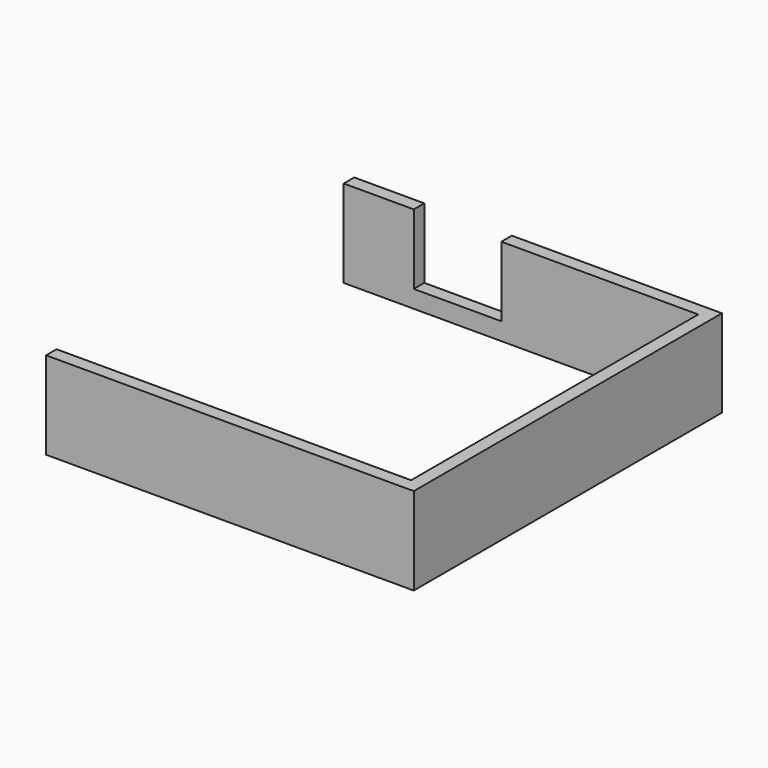
from build123d import *

# Parameters (mm, degrees)
BOX010_W     = 24
BOX010_H     = 1.5
BOX010_DEPTH = 10
BOX011_W     = 10
BOX011_H     = 1.5
BOX011_DEPTH = 2
BOX007_W     = 42
BOX007_H     = 1.5
BOX007_DEPTH = 10
BOX009_W     = 1.5
BOX009_H     = 44
BOX009_DEPTH = 10
BOX008_W     = 8
BOX008_H     = 1.5
BOX008_DEPTH = 10


with BuildPart() as cube010:
    # Box010 → Box010 (new body)
    with BuildSketch(Plane(origin=(-2, 20.5, 0), x_dir=(1, 0, 0), z_dir=(0, 0, 1))):
        with Locations((12, 0.75)):
            Rectangle(BOX010_W, BOX010_H)
    extrude(amount=BOX010_DEPTH)


with BuildPart() as cube011:
    # Box011 → Box011 (new body)
    with BuildSketch(Plane(origin=(-12, 20.5, 0), x_dir=(1, 0, 0), z_dir=(0, 0, 1))):
        with Locations((5, 0.75)):
            Rectangle(BOX011_W, BOX011_H)
    extrude(amount=BOX011_DEPTH)


with BuildPart() as cube007:
    # Box007 → Box007 (new body)
    with BuildSketch(Plane(origin=(-20, -22, 0), x_dir=(1, 0, 0), z_dir=(0, 0, 1))):
        with Locations((21, 0.75)):
            Rectangle(BOX007_W, BOX007_H)
    extrude(amount=BOX007_DEPTH)


with BuildPart() as cube009:
    # Box009 → Box009 (new body)
    with BuildSketch(Plane(origin=(20.5, -22, 0), x_dir=(1, 0, 0), z_dir=(0, 0, 1))):
        with Locations((0.75, 22)):
            Rectangle(BOX009_W, BOX009_H)
    extrude(amount=BOX009_DEPTH)


with BuildPart() as fusion001:
    # Box008 → Box008 (new body)
    with BuildSketch(Plane(origin=(-20, 20.5, 0), x_dir=(1, 0, 0), z_dir=(0, 0, 1))):
        with Locations((4, 0.75)):
            Rectangle(BOX008_W, BOX008_H)
    extrude(amount=BOX008_DEPTH)

    # Fusion001: union Cube010, Cube011, Cube007, Cube009
    add(cube010.part)
    add(cube011.part)
    add(cube007.part)
    add(cube009.part)


solid = fusion001.part
